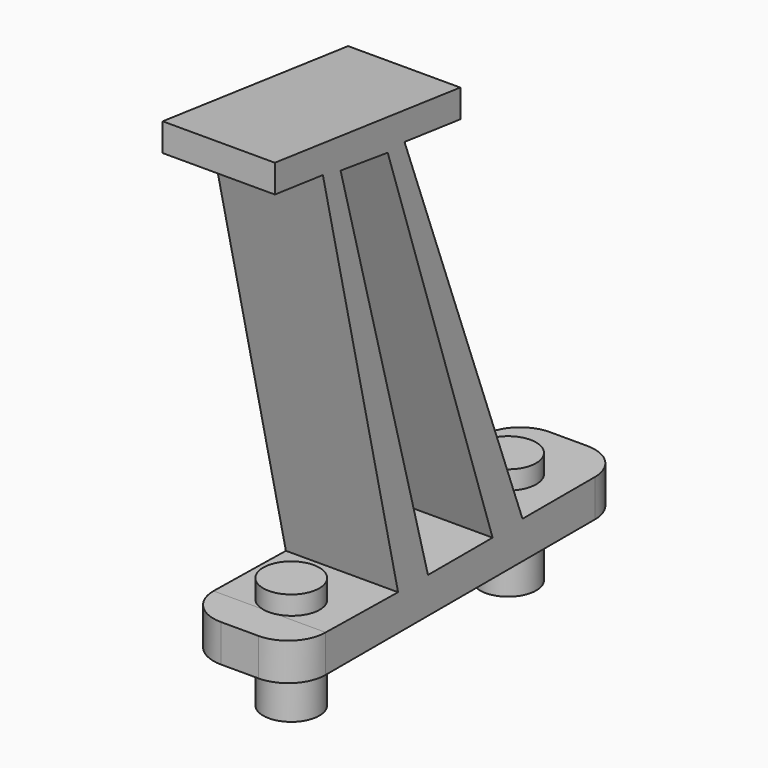
from build123d import *

# Parameters (mm, degrees)
F0_W     = 6
F0_H     = 22
F0_R     = 1.5
F1_DEPTH = 2
F2_R     = 2
F3_W     = 6
F3_H     = 16.5551486425
F4_DEPTH = 25
F6_DEPTH = 6
F8_DEPTH = 3
F9_DEPTH = 6


with BuildPart() as f1:
    # F0 (on Top) → F1 (new body)
    with BuildSketch(Plane.XY):
        Rectangle(F0_W, F0_H)
        with Locations((0, -7.55)):
            Circle(F0_R, mode=Mode.SUBTRACT)
        with Locations((0, 6.95)):
            Circle(F0_R, mode=Mode.SUBTRACT)
    extrude(amount=F1_DEPTH)

    # F2
    f2_edges = [f1.edges().sort_by_distance(p)[0] for p in [
        (-3, -11, 1),
        (3, -11, 1),
        (-3, 11, 1),
        (3, 11, 1),
    ]]
    fillet(f2_edges, radius=F2_R)

    # F3 (on face) → F4 (join)
    with BuildSketch(Plane.XY.offset(2)):
        with Locations((0, -4.1189596523)):
            Rectangle(F3_W, F3_H)
    extrude(amount=F4_DEPTH)

    # F5 (on face) → F6 (cut)
    with BuildSketch(Plane.YZ.offset(3)):
        Polygon((-4.159, 1.9240611), (-9.1855012482, 23.6120804718), (-12.3965339735, 24), (-12.3965339735, 2), (-9, 2), align=None)
        Polygon((0, 22.5023953283), (-3.7283909077, 22.9528160389), (4.158614669, 2), (4.158614669, 22), (4.158614669, 27), (-12.3965339735, 27), (-12.3965339735, 25.4976046717), (0, 24), align=None)
    extrude(amount=-F6_DEPTH, mode=Mode.SUBTRACT)

    # F0 (on Top) → F8 (join, symmetric)
    with BuildSketch(Plane.XY):
        with Locations((0, -7.55)):
            Circle(F0_R)
        with Locations((0, 6.95)):
            Circle(F0_R)
    extrude(amount=F8_DEPTH, both=True)

    # F7 (on face) → F9 (cut)
    with BuildSketch(Plane.YZ.offset(3)):
        Polygon((-8.002080251, 23.3416398971), (-2.159, 1.9240611), (2.1600568681, 1.9240611), (-4.8514023151, 22.9045075155), align=None)
    extrude(amount=-F9_DEPTH, mode=Mode.SUBTRACT)


solid = f1.part
